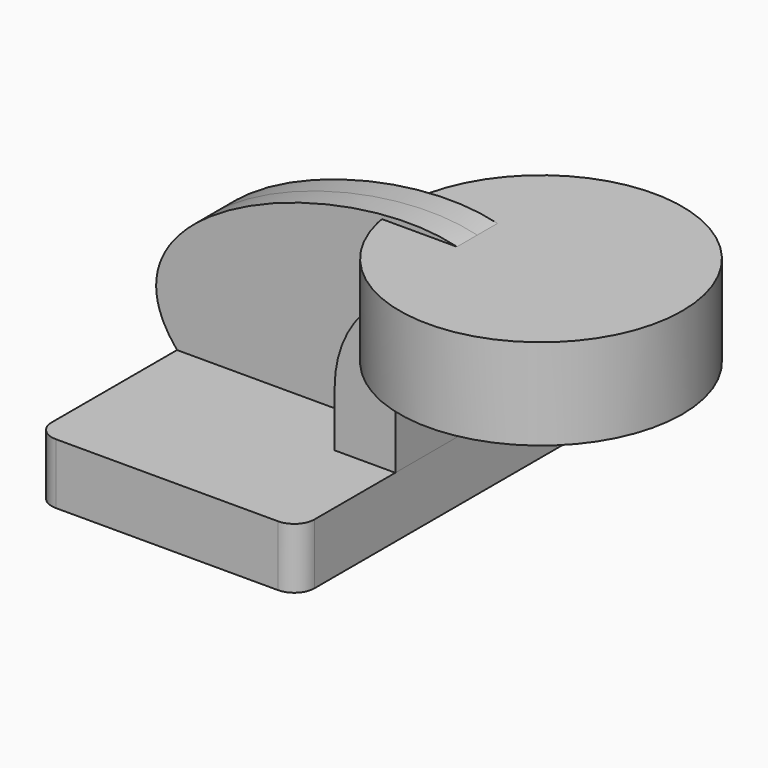
from build123d import *

# Parameters (mm, degrees)
F1_DEPTH = 63.5
F0_W     = 6.4064434166
F0_H     = 19.05
F2_DEPTH = 25.4
F3_DEPTH = 7.9375
F5_R     = 6.35


with BuildPart() as f1:
    # F0 (on Front) → F1 (new body, symmetric)
    with BuildSketch(Plane.XZ):
        Polygon((-41.275, -9.525), (41.275, -9.525), (41.275, 9.525), (22.225, 9.525), (-41.275, 9.525), align=None)
    extrude(amount=F1_DEPTH, both=True)

    # F5
    f5_edges = [f1.edges().sort_by_distance(p)[0] for p in [
        (-41.275, -63.5, 0),
        (41.275, -63.5, 0),
        (41.275, 63.5, 0),
        (-41.275, 63.5, 0),
    ]]
    fillet(f5_edges, radius=F5_R)


with BuildPart() as f2:
    # F0 (on Front) → F2 (new body, symmetric)
    with BuildSketch(Plane.XZ):
        with BuildLine():
            Line((22.225, 9.525), (41.275, 9.525))
            Line((41.275, 9.525), (41.275, 27.0002))
            ThreePointArc((41.275, 27.0002), (45.9246798487, 38.2255201513), (57.15, 42.8752))
            Line((57.15, 42.8752), (60.325, 42.8752))
            Line((60.325, 42.8752), (60.325, 61.9252))
            Line((60.325, 61.9252), (57.15, 61.9252))
            ThreePointArc((57.15, 61.9252), (32.4542956671, 51.6959043329), (22.225, 27.0002))
            Line((22.225, 27.0002), (22.225, 9.525))
        make_face()
        with Locations((63.5282217083, 52.4002)):
            Rectangle(F0_W, F0_H)
    extrude(amount=F2_DEPTH, both=True)


with BuildPart() as f3:
    # F0 (on Front) → F3 (new body, symmetric)
    with BuildSketch(Plane.XZ):
        with BuildLine():
            add(Edge.make_bspline(
                [(-41.275, 9.525), (-74.8795121908, 49.18442294), (30.2203726023, 82.8957036138), (57.15, 61.9252)],
                knots=[0, 0, 0, 0, 111.5045361635, 111.5045361635, 111.5045361635, 111.5045361635], degree=3))
            Line((-41.275, 9.525), (22.225, 9.525))
            Line((22.225, 9.525), (22.225, 27.0002))
            ThreePointArc((22.225, 27.0002), (32.4542956671, 51.6959043329), (57.15, 61.9252))
        make_face()
    extrude(amount=F3_DEPTH, both=True)


with BuildPart() as f4:
    # F0 (on Front) → F4 (revolve)
    with BuildSketch(Plane.XZ):
        Polygon((66.7314434166, 66.675), (66.7314434166, 61.9252), (66.7314434166, 42.8752), (66.7314434166, 38.1), (111.125, 38.1), (111.125, 66.675), align=None)
    revolve(axis=Axis((66.7314434166, 0, 52.3875), (0, 0, -1)))


solid = Compound([f1.part, f2.part, f3.part, f4.part])
